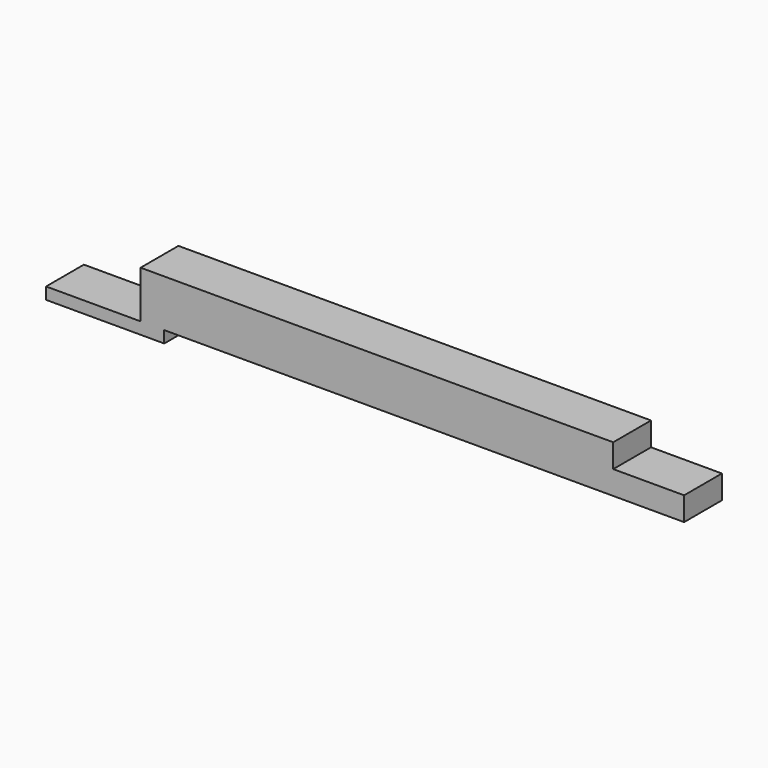
from build123d import *

# Parameters (mm, degrees)
F0_W     = 115
F0_H     = 10
F1_DEPTH = 10
F2_W     = 15
F2_H     = 10
F3_DEPTH = 5
F4_W     = 25
F4_H     = 10
F5_DEPTH = 2.5


with BuildPart() as f1:
    # F0 (on Front) → F1 (new body)
    with BuildSketch(Plane.XZ):
        with Locations((0, -5)):
            Rectangle(F0_W, F0_H)
    extrude(amount=F1_DEPTH)

    # F2 (on face) → F3 (cut)
    with BuildSketch(Plane.XY):
        with Locations((50, -5)):
            Rectangle(F2_W, F2_H)
    extrude(amount=-F3_DEPTH, mode=Mode.SUBTRACT)

    # F4 (on face) → F5 (join)
    with BuildSketch(Plane(origin=(0, 0, -10), x_dir=(1, 0, 0), z_dir=(0, 0, -1))):
        with Locations((-65, 5)):
            Rectangle(F4_W, F4_H)
    extrude(amount=F5_DEPTH)


solid = f1.part
